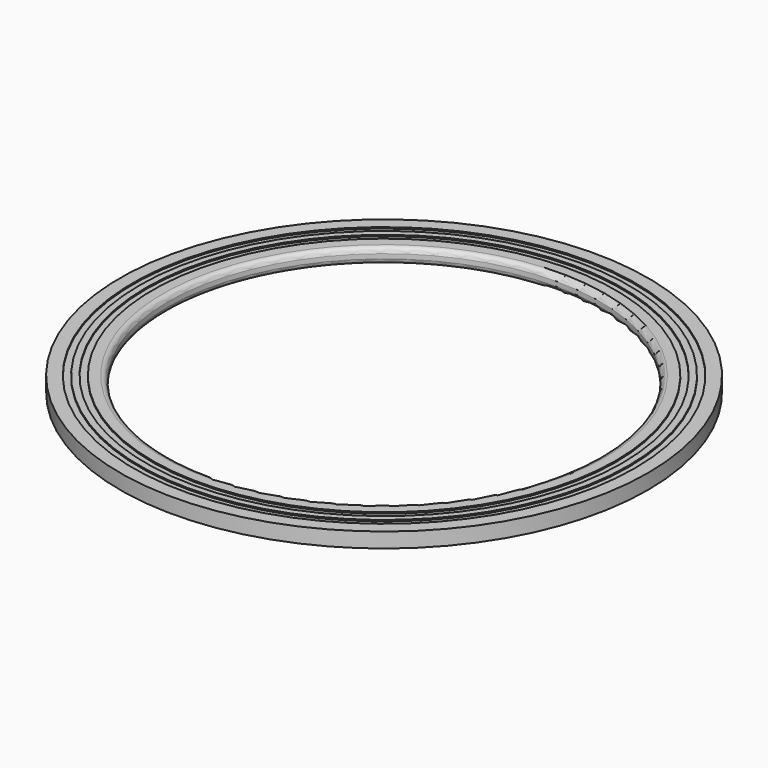
from build123d import *

# Parameters (mm, degrees)
F0_R     = 40.5
F0_R_2   = 33.15
F1_DEPTH = 2.3
F2_R     = 0.8
F3_R     = 38.5
F3_R_2   = 37.5
F3_R_3   = 36.5
F3_R_4   = 35.5
F4_DEPTH = 0.2


with BuildPart() as f1:
    # F0 (on Top) → F1 (new body)
    with BuildSketch(Plane.XY):
        Circle(F0_R)
        Circle(F0_R_2, mode=Mode.SUBTRACT)
    extrude(amount=F1_DEPTH)

    # F2
    f2_edges = [f1.edges().sort_by_distance(p)[0] for p in [
        (-33.15, 0, 2.3),
        (-33.15, 0, 0),
    ]]
    fillet(f2_edges, radius=F2_R)

    # F3 (on face) → F4 (cut)
    with BuildSketch(Plane.XY.offset(2.3)):
        Circle(F3_R)
        Circle(F3_R_2, mode=Mode.SUBTRACT)
        Circle(F3_R_3)
        Circle(F3_R_4, mode=Mode.SUBTRACT)
    extrude(amount=-F4_DEPTH, mode=Mode.SUBTRACT)


solid = f1.part
